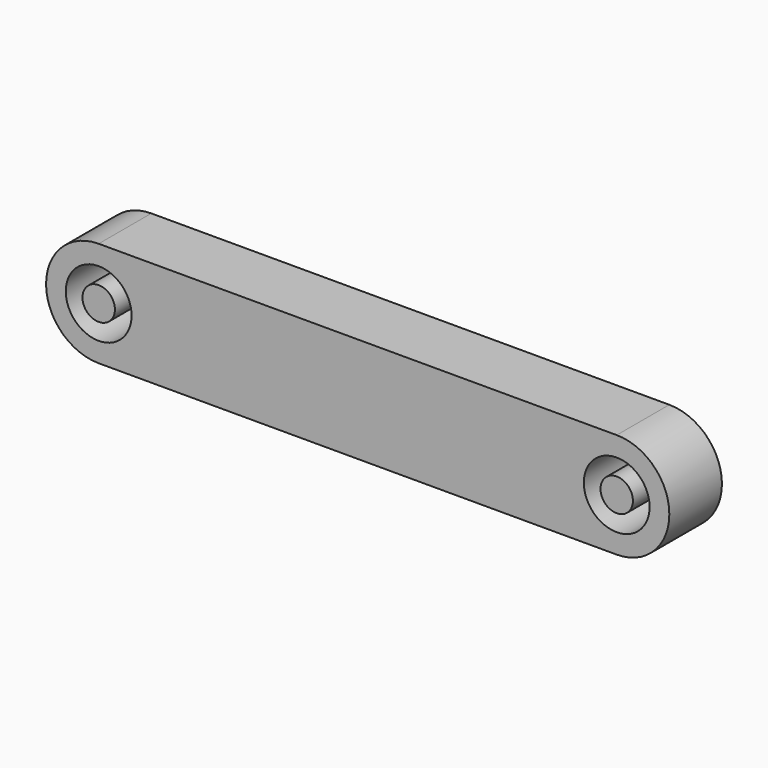
from build123d import *

# Parameters (mm, degrees)
F0_R     = 2.5019
F0_R_2   = 1.2319
F1_DEPTH = 2.5


with BuildPart() as f1:
    # F0 (on Front) → F1 (new body, symmetric)
    with BuildSketch(Plane.XZ):
        with BuildLine():
            Line((39.3954, 4.0005), (0, 4.0005))
            ThreePointArc((0, 4.0005), (-4.0005, 0), (0, -4.0005))
            Line((0, -4.0005), (39.3954, -4.0005))
            ThreePointArc((39.3954, -4.0005), (43.3959, 0), (39.3954, 4.0005))
        make_face()
        Circle(F0_R, mode=Mode.SUBTRACT)
        with Locations((39.3954, 0)):
            Circle(F0_R, mode=Mode.SUBTRACT)
        Circle(F0_R_2)
        with Locations((39.3954, 0)):
            Circle(F0_R_2)
    extrude(amount=F1_DEPTH, both=True)


solid = f1.part
